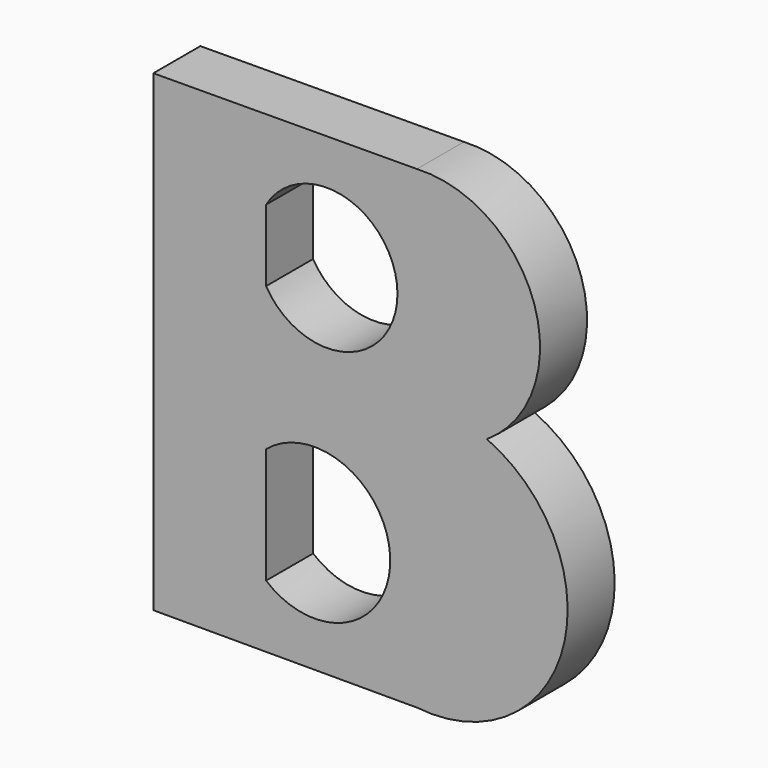
from build123d import *

# Parameters (mm, degrees)
F1_DEPTH = 25.4
F3_DEPTH = 25.4


with BuildPart() as f1:
    # F0 (on Front) → F1 (new body)
    with BuildSketch(Plane.XZ):
        with BuildLine():
            Line((0, 52.337721), (-113.883786, 51.742114))
            Line((-113.883786, 51.742114), (-113.883786, -152.551606))
            Line((-113.883786, -152.551606), (0, -152.551606))
            ThreePointArc((0, -152.551606), (63.101704, -109.526382), (30.253483, -40.577203))
            ThreePointArc((30.253483, -40.577203), (50.728837, 17.472448), (0, 52.337721))
        make_face()
    extrude(amount=F1_DEPTH)

    # F2 (on face) → F3 (cut)
    with BuildSketch(Plane.XZ.offset(25.4)):
        with BuildLine():
            ThreePointArc((-65.174758, -13.412004), (-8.402959, 2.085997), (-65.174758, 17.583998))
            Line((-65.174758, 17.583998), (-65.174758, -13.412004))
        make_face()
        with BuildLine():
            ThreePointArc((-65.174758, -125.446111), (-11.516542, -100.415442), (-65.174758, -75.384773))
            Line((-65.174758, -75.384773), (-65.174758, -125.446111))
        make_face()
    extrude(amount=-F3_DEPTH, mode=Mode.SUBTRACT)


solid = f1.part
